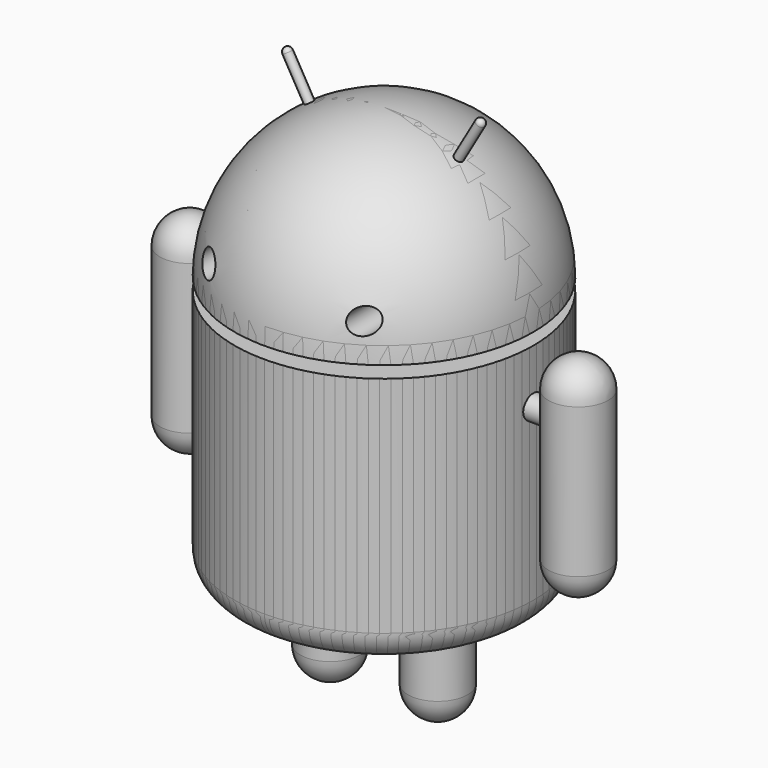
from build123d import *

# Parameters (mm, degrees)
F9_R      = 4
F10_DEPTH = 60
F12_START = 47.8
F11_R     = 4
F12_DEPTH = 12.2


with BuildPart() as f1:
    # F0 (on Front) → F1 (revolve)
    with BuildSketch(Plane.XZ):
        with BuildLine():
            Line((0, 54), (0, 4))
            Line((0, 4), (50, 4))
            ThreePointArc((50, 4), (35.3553390593, 39.3553390593), (0, 54))
        make_face()
    revolve(axis=Axis((0, 0, -24.6936754167), (0, 0, -1)))

    # F6 (on Front) → F7 (revolve)
    with BuildSketch(Plane.XZ):
        with BuildLine():
            Line((33, 61.1175927162), (23, 43.7970846405))
            Line((23, 43.7970846405), (24.2990381057, 43.0470846405))
            Line((24.2990381057, 43.0470846405), (33.5490381057, 59.0685546105))
            ThreePointArc((33.5490381057, 59.0685546105), (33.6988887394, 60.2067831781), (33, 61.1175927162))
        make_face()
    revolve(axis=Axis((8.1424876619, 0, 18.0631183967), (0.5, 0, 0.8660254038)))


with BuildPart() as f1b:
    # F0 (on Front) → F1, piece 2 (revolve)
    with BuildSketch(Plane.XZ):
        with BuildLine():
            Line((50, 0), (0, 0))
            Line((0, 0), (0, -85))
            Line((0, -85), (40, -85))
            ThreePointArc((40, -85), (47.0710678119, -82.0710678119), (50, -75))
            Line((50, -75), (50, 0))
        make_face()
    revolve(axis=Axis((0, 0, -24.6936754167), (0, 0, -1)))

    # F2 (on Front) → F3 (revolve)
    with BuildSketch(Plane.XZ):
        with BuildLine():
            Line((28, -85), (18, -85))
            Line((18, -85), (18, -120))
            ThreePointArc((18, -120), (25.0710678119, -117.0710678119), (28, -110))
            Line((28, -110), (28, -85))
        make_face()
    revolve(axis=Axis((18, 0, -107.5847484171), (0, 0, -1)))


with BuildPart() as f5:
    # F4 (on Front) → F5 (revolve)
    with BuildSketch(Plane.XZ):
        with BuildLine():
            Line((65, 2), (65, -68))
            ThreePointArc((65, -68), (72.0710678119, -65.0710678119), (75, -58))
            Line((75, -58), (75, -8))
            ThreePointArc((75, -8), (72.0710678119, -0.9289321881), (65, 2))
        make_face()
    revolve(axis=Axis((65, 0, -36.7332571186), (0, 0, -1)))


with BuildPart() as f8_1:
    # F8: instance of F5
    add(f5.part.mirror(Plane.YZ))


with BuildPart() as f8_2:
    # F8: instance of F1b
    add(f1b.part.mirror(Plane.YZ))


with BuildPart() as f8_3:
    # F8: instance of F1
    add(f1.part.mirror(Plane.YZ))


with BuildPart() as f10_tool:
    # F9 (on Front) → F10 (new body)
    with BuildSketch(Plane.XZ):
        with Locations((26, 16)):
            Circle(F9_R)
        with Locations((-26, 16)):
            Circle(F9_R)
    extrude(amount=F10_DEPTH)


with BuildPart() as f1_1:
    add(f1.part)

    # F10: cut by f10_tool
    add(f10_tool.part, mode=Mode.SUBTRACT)


with BuildPart() as f8_3_1:
    add(f8_3.part)

    # F10: cut by f10_tool
    add(f10_tool.part, mode=Mode.SUBTRACT)


with BuildPart() as f12:
    # F11 (on Right) → F12 (new body)
    with BuildSketch(Plane.YZ.offset(F12_START)):
        with Locations((0, -18)):
            Circle(F11_R)
    extrude(amount=F12_DEPTH)


with BuildPart() as f13_1:
    # F13: instance of F12
    add(f12.part.mirror(Plane.YZ))


solid = Compound([f1b.part, f5.part, f8_1.part, f8_2.part, f1_1.part, f8_3_1.part, f12.part, f13_1.part])
